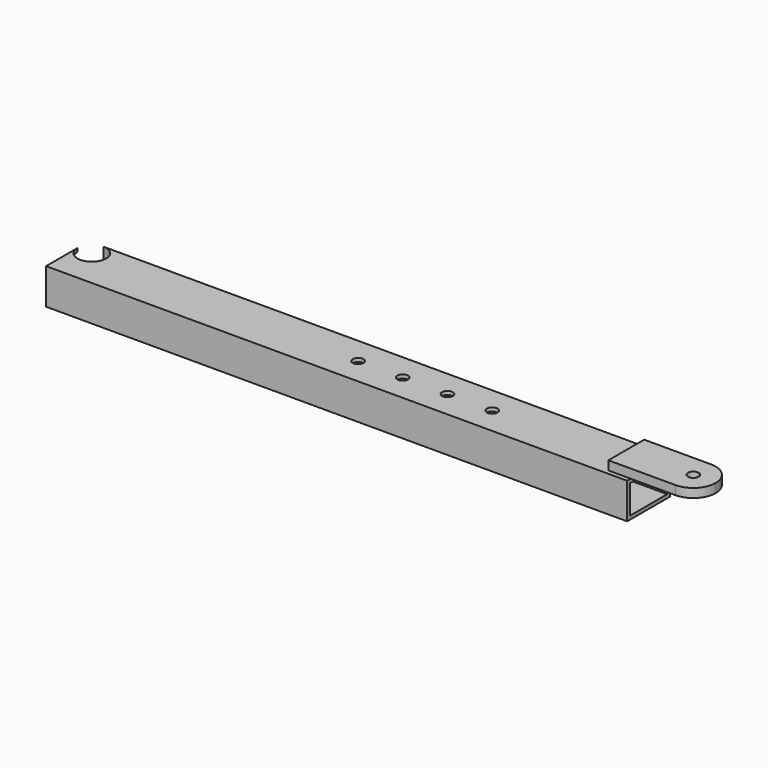
from build123d import *

# Parameters (mm, degrees)
F0_R      = 6
F1_DEPTH  = 10
F2_W      = 52
F2_H      = 32
F3_DEPTH  = 650
F1_FACE_W = 50
F1_FACE_H = 10
F4_DEPTH  = 25
F6_DEPTH  = 40
F8_DEPTH  = 40


with BuildPart() as f1:
    # F0 (on Top) → F1 (new body)
    with BuildSketch(Plane.XY):
        with BuildLine():
            ThreePointArc((0, -25), (17.67767, -17.67767), (25, 0))
            ThreePointArc((25, 0), (17.67767, 17.67767), (0, 25))
            ThreePointArc((0, 25), (-25, 0), (0, -25))
        make_face()
        Circle(F0_R, mode=Mode.SUBTRACT)
        with BuildLine():
            ThreePointArc((0, -25), (-25, 0), (0, 25))
            Line((0, 25), (-50, 25))
            Line((-50, 25), (-50, -25))
            Line((-50, -25), (0, -25))
        make_face()
    extrude(amount=F1_DEPTH)



with BuildPart() as f3:
    # F2 (on face) → F3 (new body)
    with BuildSketch(Plane(origin=(-50, 0, 0), x_dir=(0, -1, 0), z_dir=(-1, 0, 0))):
        Polygon((30, 0), (0, 0), (-30, 0), (-30, -40), (30, -40), align=None)
        with Locations((0, -20)):
            Rectangle(F2_W, F2_H, mode=Mode.SUBTRACT)
    extrude(amount=F3_DEPTH)


with BuildPart() as f1_1:
    add(f1.part)

    add(f3.part)  # F4 merges F3
    # F1_face (on face) → F4 (join)
    with BuildSketch(Plane(origin=(-50, 0, 5), x_dir=(0, -1, 0), z_dir=(-1, 0, 0))):
        Rectangle(F1_FACE_W, F1_FACE_H)
    extrude(amount=F4_DEPTH)

    # F5 (on face) → F6 (cut)
    with BuildSketch(Plane.XY):
        with BuildLine():
            ThreePointArc((-369, 0), (-370.757359, 4.242641), (-375, 6))
            Line((-375, 6), (-375, 0))
            Line((-375, 0), (-369, 0))
        make_face()
        with BuildLine():
            ThreePointArc((-219, 0), (-225, 6), (-231, 0))
            ThreePointArc((-231, 0), (-225, -6), (-219, 0))
        make_face()
        with BuildLine():
            ThreePointArc((-269, 0), (-275, 6), (-281, 0))
            Line((-281, 0), (-275, 0))
            Line((-275, 0), (-269, 0))
        make_face()
        with BuildLine():
            Line((-275, 0), (-281, 0))
            ThreePointArc((-281, 0), (-275, -6), (-269, 0))
            Line((-269, 0), (-275, 0))
        make_face()
        with BuildLine():
            ThreePointArc((-319, 0), (-325, 6), (-331, 0))
            Line((-331, 0), (-325, 0))
            Line((-325, 0), (-319, 0))
        make_face()
        with BuildLine():
            Line((-325, 0), (-331, 0))
            ThreePointArc((-331, 0), (-325, -6), (-319, 0))
            Line((-319, 0), (-325, 0))
        make_face()
        with BuildLine():
            Line((-375, 0), (-375, 6))
            ThreePointArc((-375, 6), (-379.242641, -4.242641), (-369, 0))
            Line((-369, 0), (-375, 0))
        make_face()
    extrude(amount=-F6_DEPTH, mode=Mode.SUBTRACT)

    # F7 (on face) → F8 (cut)
    with BuildSketch(Plane.XY):
        with BuildLine():
            Line((-684, 30), (-700, 30))
            Line((-700, 30), (-700, 14))
            ThreePointArc((-700, 14), (-695.313708, 25.313708), (-684, 30))
        make_face()
        with BuildLine():
            ThreePointArc((-668, 14), (-672.686292, 25.313708), (-684, 30))
            ThreePointArc((-684, 30), (-695.313708, 25.313708), (-700, 14))
            ThreePointArc((-700, 14), (-684, -2), (-668, 14))
        make_face()
    extrude(amount=-F8_DEPTH, mode=Mode.SUBTRACT)


solid = f1_1.part
